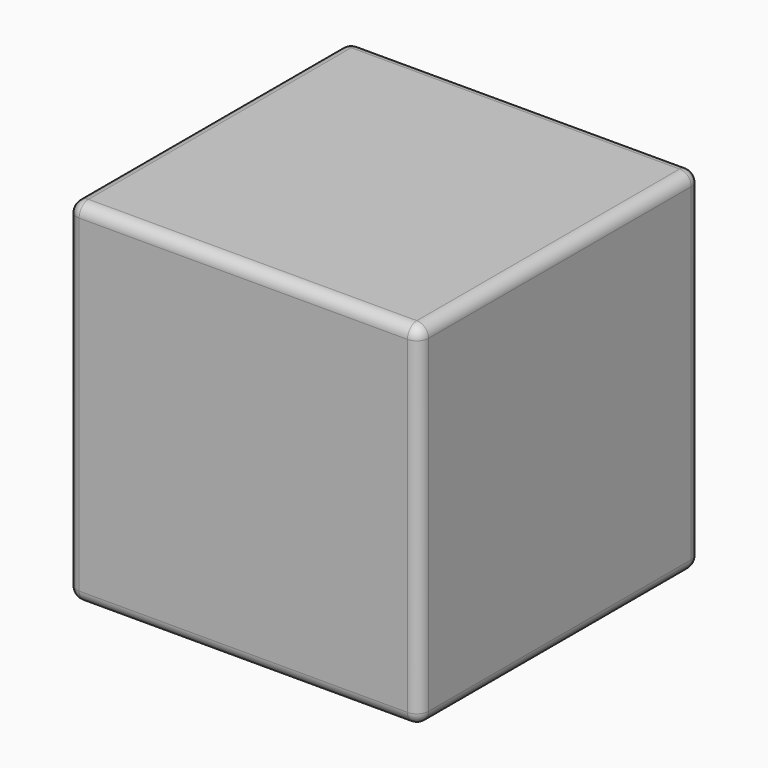
from build123d import *

# Parameters (mm, degrees)
F0_W     = 30
F0_H     = 30
F1_DEPTH = 30
F2_T     = -2.5
F3_R     = 1


with BuildPart() as f1:
    # F0 (on Front) → F1 (new body)
    with BuildSketch(Plane.XZ):
        with Locations((15, 15)):
            Rectangle(F0_W, F0_H)
    extrude(amount=F1_DEPTH)

    # F2
    f2_openings = [f1.faces().sort_by_distance(p)[0] for p in [
        (15, 0, 15),
    ]]
    offset(amount=F2_T, openings=f2_openings)

    # F3
    f3_edges = [f1.edges().sort_by_distance(p)[0] for p in [
        (30, -15, 30),
        (0, -15, 30),
        (30, -15, 0),
        (2.5, -13.75, 2.5),
        (0, 0, 15),
        (15, 0, 0),
        (15, -30, 0),
        (15, 0, 30),
        (15, -30, 30),
        (0, -30, 15),
        (30, 0, 15),
        (30, -30, 15),
        (27.5, -13.75, 2.5),
        (2.5, -13.75, 27.5),
        (27.5, -13.75, 27.5),
        (15, 0, 2.5),
        (15, -27.5, 2.5),
        (15, 0, 27.5),
        (15, -27.5, 27.5),
        (2.5, 0, 15),
        (2.5, -27.5, 15),
        (27.5, 0, 15),
        (27.5, -27.5, 15),
        (0, -15, 0),
    ]]
    fillet(f3_edges, radius=F3_R)


solid = f1.part
